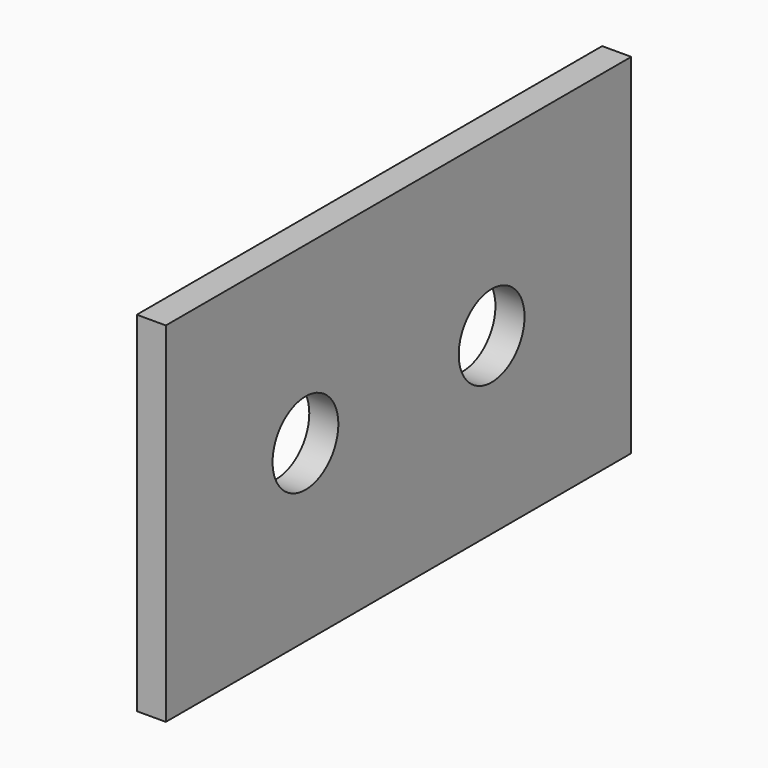
from build123d import *

# Parameters (mm, degrees)
F0_W     = 100
F0_H     = 60
F0_R     = 7.07
F1_DEPTH = 5


with BuildPart() as f1:
    # F0 (on Right) → F1 (new body)
    with BuildSketch(Plane.YZ):
        with Locations((20, 0)):
            Rectangle(F0_W, F0_H)
        Circle(F0_R, mode=Mode.SUBTRACT)
        with Locations((40, 0)):
            Circle(F0_R, mode=Mode.SUBTRACT)
    extrude(amount=F1_DEPTH)


solid = f1.part
